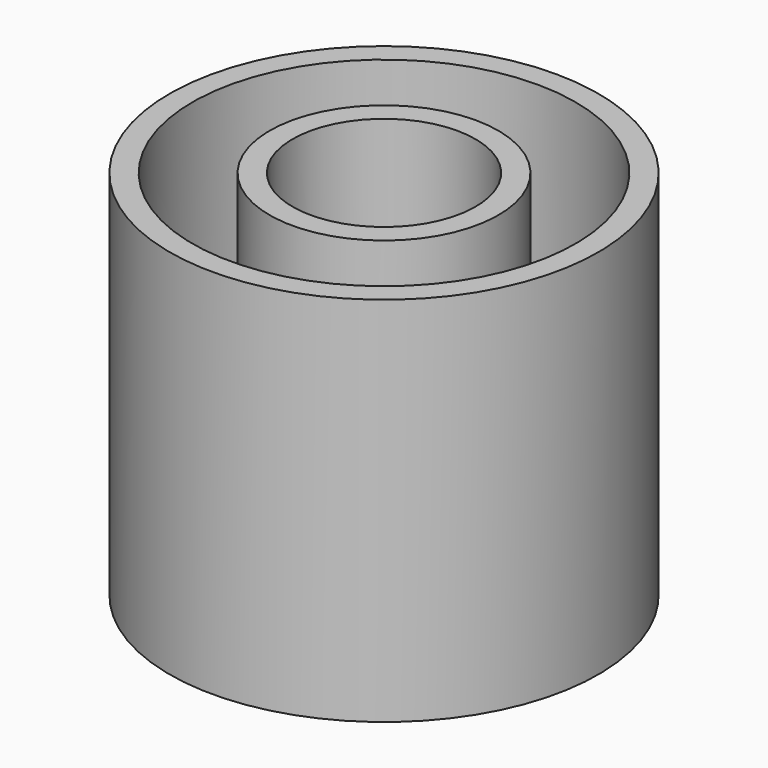
from build123d import *


with BuildPart() as screw:
    # Sketch003 → Revolve (revolve)
    with BuildSketch(Plane.YZ):
        Polygon((0, 0), (1.6, 0), (1.6, 1), (3.2, 2.6), (3.2, 15), (0, 15), align=None)
    revolve(axis=Axis((0, 0, 0), (0, 0, 1)))


with BuildPart() as cut:
    # Sketch → Revolve001 (revolve)
    with BuildSketch(Plane.YZ):
        Polygon((3, 1.5), (7.5, 1.5), (7.5, 14.5), (6.7, 14.5), (6.7, 3.85), (5.35, 2.5), (4, 3.85), (4, 14.5), (0, 14.5), (0, 0), (1.5, 0), align=None)
    revolve(axis=Axis((0, 0, 0), (0, 0, 1)))

    # Cut: cut Screw
    add(screw.part, mode=Mode.SUBTRACT)


solid = cut.part
